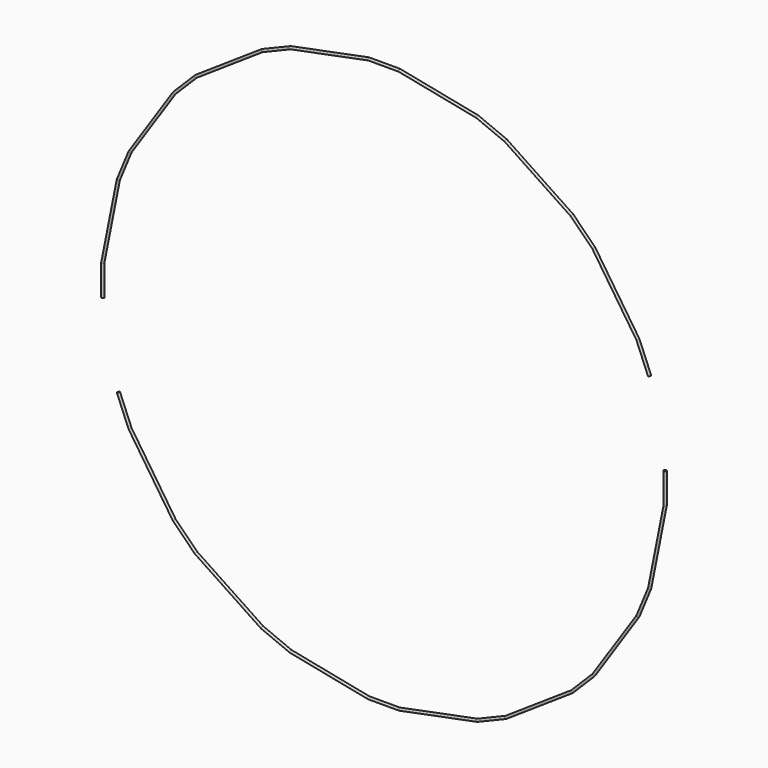
from build123d import *

# Parameters (mm, degrees)
F1_R = 3.175
F2_R = 3.175


with BuildPart() as f3:
    # F3: sweep along a path in F0
    with BuildLine(Plane.XZ) as f3_path:
        Line((-698.881, -38.1), (-698.881, 38.1))
        Line((-698.881, 38.1), (-660.2620903341, 232.2503697061))
        Line((-660.2620903341, 232.2503697061), (-631.1016127879, 302.6499900834))
        Line((-631.1016127879, 302.6499900834), (-521.1242627056, 467.2427259792))
        Line((-521.1242627056, 467.2427259792), (-467.2427259792, 521.1242627056))
        Line((-467.2427259792, 521.1242627056), (-302.6499900834, 631.1016127879))
        Line((-302.6499900834, 631.1016127879), (-232.2503697061, 660.2620903341))
        Line((-232.2503697061, 660.2620903341), (-38.1, 698.881))
        Line((-38.1, 698.881), (38.1, 698.881))
        Line((38.1, 698.881), (232.2503697075, 660.2620903415))
        Line((232.2503697075, 660.2620903415), (302.6499900793, 631.1016127817))
        Line((302.6499900793, 631.1016127817), (467.2427259792, 521.1242627056))
        Line((467.2427259792, 521.1242627056), (521.1242627056, 467.2427259792))
        Line((521.1242627056, 467.2427259792), (631.1016107739, 302.6499887377))
        Line((631.1016107739, 302.6499887377), (660.2620927099, 232.2503701786))
    # F1 (on Right) → F3 (sweep)
    with BuildSketch(Plane.YZ):
        with Locations((0, 702.056)):
            Circle(F1_R)
    sweep(path=f3_path.line, transition=Transition.RIGHT)


with BuildPart() as f4:
    # F4: sweep along a path in F0
    with BuildLine(Plane.XZ) as f4_path:
        Line((698.881, 38.1), (698.881, -38.1))
        Line((698.881, -38.1), (660.2620903341, -232.2503697061))
        Line((660.2620903341, -232.2503697061), (631.1016127879, -302.6499900834))
        Line((631.1016127879, -302.6499900834), (521.1242627056, -467.2427259792))
        Line((521.1242627056, -467.2427259792), (467.2427259792, -521.1242627056))
        Line((467.2427259792, -521.1242627056), (302.6499900834, -631.1016127879))
        Line((302.6499900834, -631.1016127879), (232.2503697061, -660.2620903341))
        Line((232.2503697061, -660.2620903341), (38.1, -698.881))
        Line((38.1, -698.881), (-38.1, -698.881))
        Line((-38.1, -698.881), (-232.2503697075, -660.2620903415))
        Line((-232.2503697075, -660.2620903415), (-302.6499900793, -631.1016127817))
        Line((-302.6499900793, -631.1016127817), (-467.2427259792, -521.1242627056))
        Line((-467.2427259792, -521.1242627056), (-521.1242627056, -467.2427259792))
        Line((-521.1242627056, -467.2427259792), (-631.1016107739, -302.6499887377))
        Line((-631.1016107739, -302.6499887377), (-660.2620927099, -232.2503701786))
    # F2 (on Top) → F4 (sweep)
    with BuildSketch(Plane.XY):
        with Locations((702.056, 0)):
            Circle(F2_R)
    sweep(path=f4_path.line, transition=Transition.RIGHT)


solid = Compound([f3.part, f4.part])
